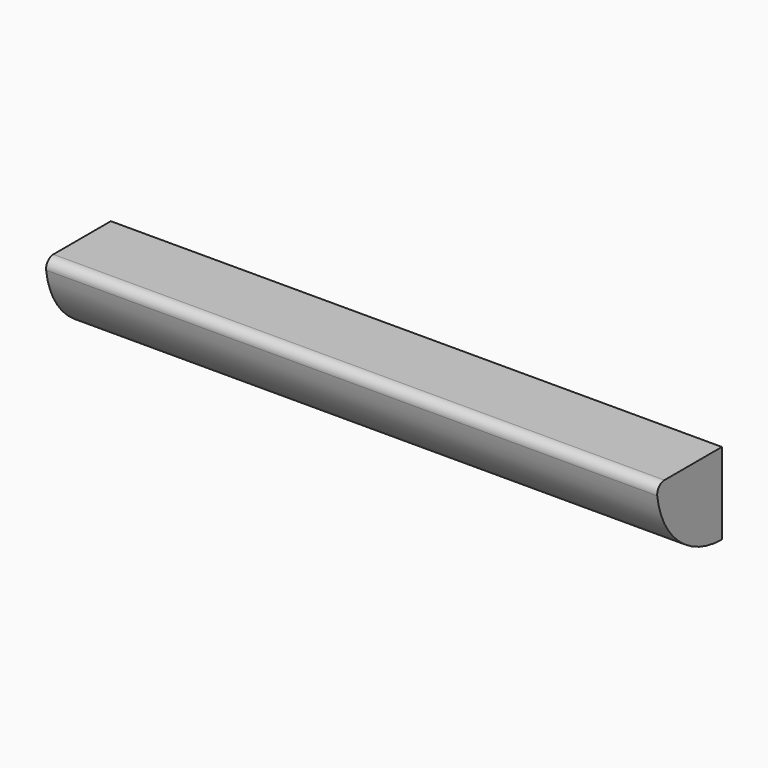
from build123d import *

# Parameters (mm, degrees)
F1_DEPTH = 135


with BuildPart() as f1:
    # F0 (on Right) → F1 (new body)
    with BuildSketch(Plane.YZ):
        with BuildLine():
            Line((0, 0), (0, 18))
            Line((0, 18), (-15.874508, 18))
            ThreePointArc((-15.874508, 18), (-17.374508, 17.322876), (-17.858821, 15.75))
            ThreePointArc((-17.858821, 15.75), (-11.905881, 4.5), (0, 0))
        make_face()
    extrude(amount=F1_DEPTH)


solid = f1.part
